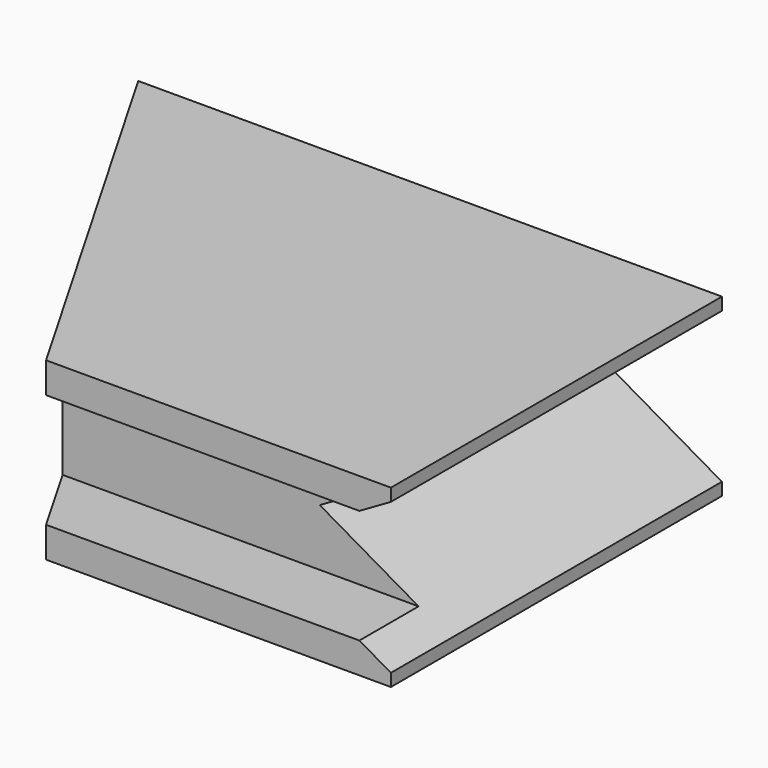
from build123d import *

# Parameters (mm, degrees)
EXTRUDE003_DEPTH = 33
SKETCH001_W      = 34.669946
SKETCH001_H      = 5.9
EXTRUDE001_DEPTH = 4.55
EXTRUDE_DEPTH    = 7


with BuildPart() as extrude003:
    # Sketch002 (on Cut) → Extrude003 (new body)
    with BuildSketch(Plane.XZ):
        Polygon((27.5, 6), (27.5, -6), (17.107695, 0), align=None)
    extrude(amount=-EXTRUDE003_DEPTH)


with BuildPart() as extrude001:
    # Sketch001 (on Extrude) → Extrude001 (new body, symmetric)
    with BuildSketch(Plane.XY):
        with Locations((12.538995, 2.95)):
            Rectangle(SKETCH001_W, SKETCH001_H)
    extrude(amount=EXTRUDE001_DEPTH, both=True)


with BuildPart() as cut001:
    # Sketch → Extrude (new body, symmetric)
    with BuildSketch(Plane.XY):
        Polygon((0, 0), (-19.052559, 33), (27.5, 33), (27.5, 0), align=None)
    extrude(amount=EXTRUDE_DEPTH, both=True)

    # Cut: cut Extrude001
    add(extrude001.part, mode=Mode.SUBTRACT)

    # Cut001: cut Extrude003
    add(extrude003.part, mode=Mode.SUBTRACT)


solid = cut001.part
